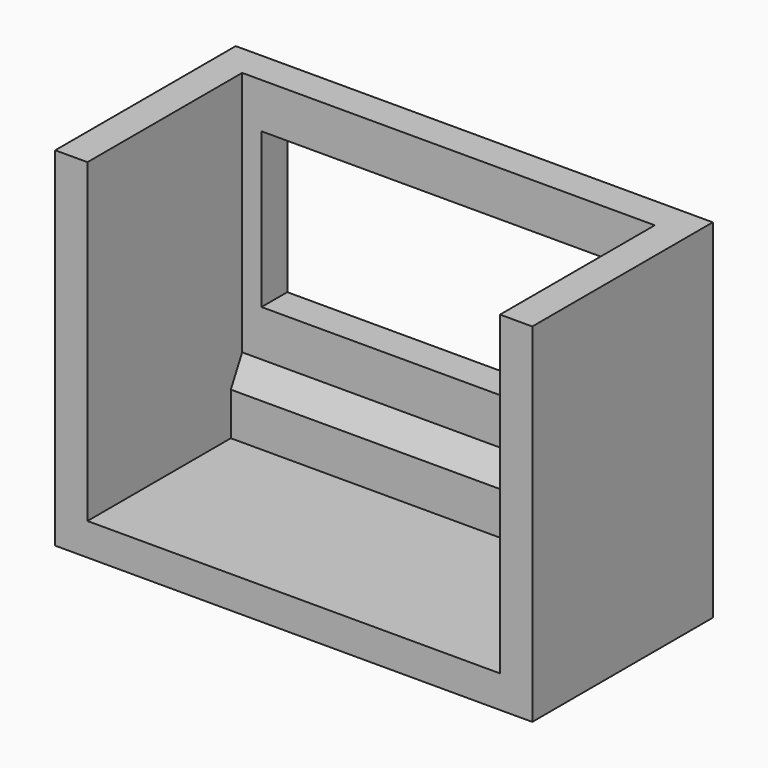
from build123d import *

# Parameters (mm, degrees)
F0_W     = 3200
F0_H     = 2450
F0_W_2   = 2900
F0_H_2   = 1200
F1_DEPTH = 250
F2_W     = 1500
F2_H     = 2450
F2_W_2   = 250
F3_DEPTH = 250
F4_W     = 1750
F4_H     = 2450
F5_DEPTH = 250
F6_W     = 3200
F6_H     = 1500
F7_DEPTH = 250
F9_DEPTH = 3200


with BuildPart() as f1:
    # F0 (on Front) → F1 (new body)
    with BuildSketch(Plane.XZ):
        Rectangle(F0_W, F0_H)
        with Locations((0, 275)):
            Rectangle(F0_W_2, F0_H_2, mode=Mode.SUBTRACT)
    extrude(amount=F1_DEPTH)

    # F2 (on face) → F3 (join)
    with BuildSketch(Plane.YZ.offset(1600)):
        with Locations((-1000, 0)):
            Rectangle(F2_W, F2_H)
        with Locations((-125, 0)):
            Rectangle(F2_W_2, F2_H)
    extrude(amount=F3_DEPTH)

    # F4 (on face) → F5 (join)
    with BuildSketch(Plane(origin=(-1600, 0, 0), x_dir=(0, -1, 0), z_dir=(-1, 0, 0))):
        with Locations((875, 0)):
            Rectangle(F4_W, F4_H)
    extrude(amount=F5_DEPTH)

    # F6 (on face) → F7 (join)
    with BuildSketch(Plane(origin=(0, 0, -1225), x_dir=(1, 0, 0), z_dir=(0, 0, -1))):
        with Locations((0, 1000)):
            Rectangle(F6_W, F6_H)
        Polygon((-1850, 1750), (-1850, 0), (1850, 0), (1850, 1750), (1600, 1750), (1600, 250), (-1600, 250), (-1600, 1750), align=None)
    extrude(amount=F7_DEPTH)

    # F8 (on face) → F9 (join, through all)
    with BuildSketch(Plane.YZ.offset(-1600)):
        Polygon((-360, -1225), (-250, -1225), (-250, -683), (-360, -893), align=None)
    extrude(amount=F9_DEPTH)


solid = f1.part
